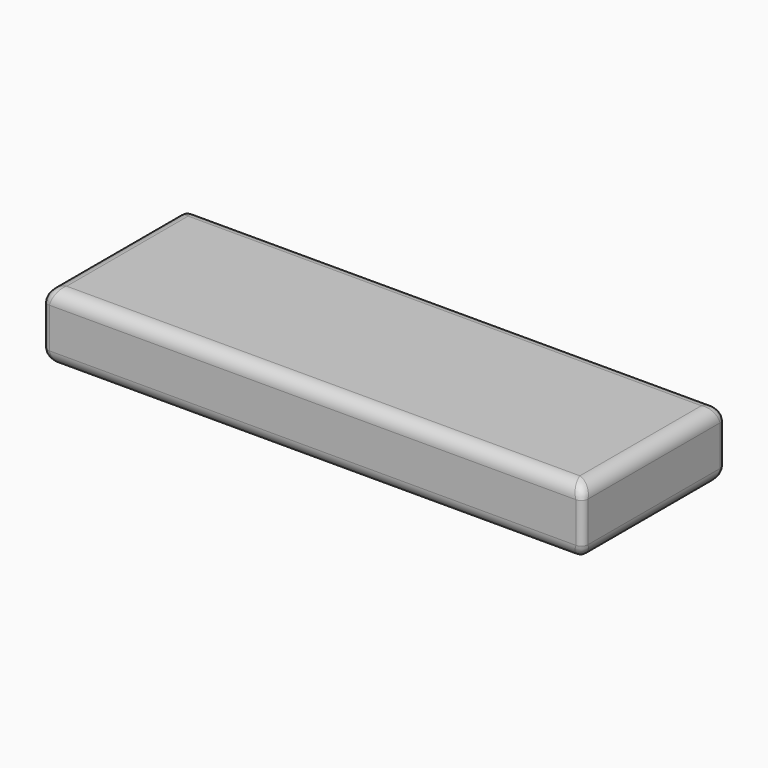
from build123d import *

# Parameters (mm, degrees)
BOX_W       = 121
BOX_H       = 40
BOX_DEPTH   = 15
FILLET_R    = 1.5
FILLET003_R = 3


with BuildPart() as part:
    # Box → Box (new body)
    with BuildSketch(Plane.XY):
        with Locations((60.5, 20)):
            Rectangle(BOX_W, BOX_H)
    extrude(amount=BOX_DEPTH)

    # Fillet
    fillet_edges = [part.edges().sort_by_distance(p)[0] for p in [
        (0, 0, 7.5),
        (0, 40, 7.5),
        (121, 0, 7.5),
        (121, 40, 7.5),
    ]]
    fillet(fillet_edges, radius=FILLET_R)

    # Fillet003
    fillet003_edges = [part.edges().sort_by_distance(p)[0] for p in [
        (0, 20, 15),
        (0, 20, 0),
        (0.43934, 0.43934, 15),
        (60.5, 0, 15),
        (120.56066, 0.43934, 15),
        (121, 20, 15),
        (120.56066, 39.56066, 15),
        (60.5, 40, 15),
        (0.43934, 39.56066, 15),
        (0.43934, 0.43934, 0),
        (0.43934, 39.56066, 0),
        (60.5, 0, 0),
        (120.56066, 0.43934, 0),
        (121, 20, 0),
        (120.56066, 39.56066, 0),
        (60.5, 40, 0),
    ]]
    fillet(fillet003_edges, radius=FILLET003_R)


solid = part.part
